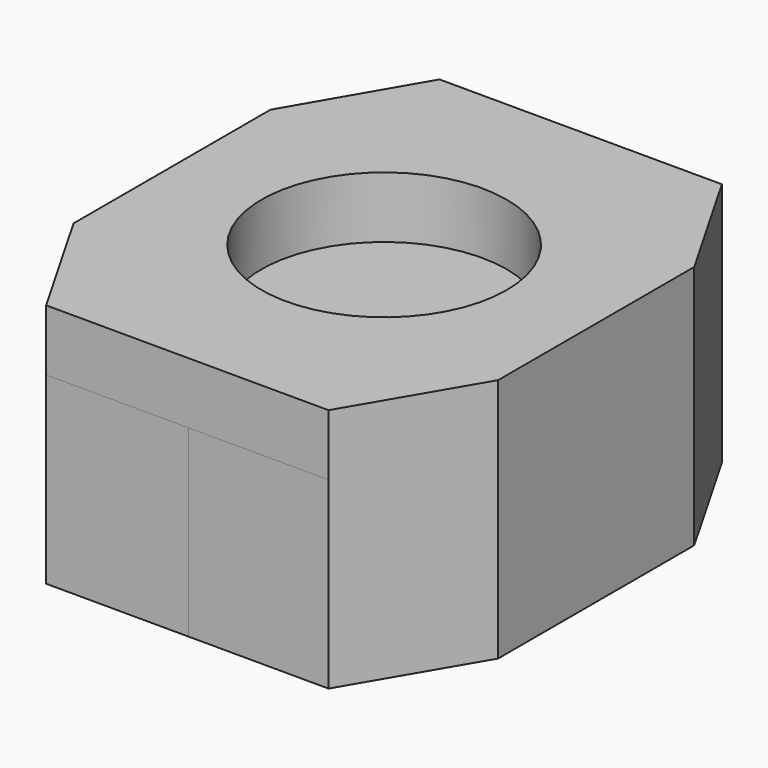
from build123d import *

# Parameters (mm, degrees)
F1_DEPTH = 15
F2_R     = 10
F3_DEPTH = 5


with BuildPart() as f1:
    # F0 (on Top) → F1 (new body)
    with BuildSketch(Plane.XY):
        Polygon((0.0409190611, -20.000126817), (11.4871273843, -20.0289496519), (17.3361363494, -10.0435512948), (17.3361363494, 9.9563218882), (11.5878512271, 19.9707967142), (0.0409190611, 19.999873183), align=None)
        Polygon((-11.6067369476, -19.9707967142), (0.0409190611, -20.000126817), (0.0409190611, 19.999873183), (-11.5060131049, 20.0289496519), (-17.3046601485, 10.0435512948), (-17.3046601485, -10.0435512948), align=None)
    extrude(amount=F1_DEPTH)

    # F2 (on face) → F3 (join)
    with BuildSketch(Plane.XY.offset(15)):
        Polygon((-11.6067369476, -19.9707967142), (11.4871273843, -20.0289496519), (17.3361363494, -10.0435512948), (17.3361363494, 9.9563218882), (11.5878512271, 19.9707967142), (-11.5060131049, 20.0289496519), (-17.3046601485, 10.0435512948), (-17.3046601485, -10.0435512948), align=None)
        Circle(F2_R, mode=Mode.SUBTRACT)
    extrude(amount=F3_DEPTH)


solid = f1.part
